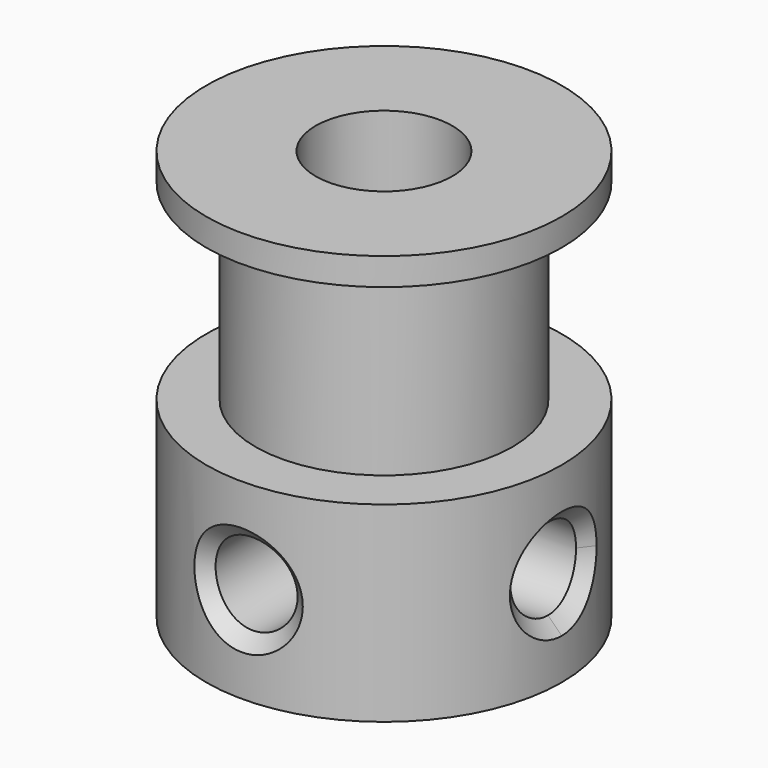
from build123d import *

# Parameters (mm, degrees)
SKETCH003_R     = 1.5
PAD010_DEPTH    = 8
SKETCH017_R     = 1.5
PAD009_DEPTH    = 8
SKETCH016_R     = 2.5
POCKET001_DEPTH = 15
CHAMFER005_SIZE = 0.5


with BuildPart() as pad010:
    # Sketch003 → Pad010 (new body)
    with BuildSketch(Plane(origin=(7, 0, 3.5), x_dir=(0, 1, 0), z_dir=(1, 0, 0))):
        Circle(SKETCH003_R)
    extrude(amount=-PAD010_DEPTH)


with BuildPart() as pad009:
    # Sketch017 → Pad009 (new body)
    with BuildSketch(Plane(origin=(0, -7, 3.5), x_dir=(1, 0, 0), z_dir=(0, -1, 0))):
        Circle(SKETCH017_R)
    extrude(amount=-PAD009_DEPTH)


with BuildPart() as chamfer005:
    # Sketch015 → Revolution (revolve)
    with BuildSketch(Plane.XZ):
        Polygon((0, 0), (6.5, 0), (6.5, 7), (4.7, 7), (4.7, 14), (6.5, 14), (6.5, 15), (0, 15), align=None)
    revolve(axis=Axis((0, 0, 0), (0, 0, 1)))

    # Sketch016 (on Face7 of Revolution) → Pocket001 (cut)
    with BuildSketch(Plane(origin=(0, 0, 15), x_dir=(-1, 0, 0), z_dir=(0, 0, 1))):
        Circle(SKETCH016_R)
    extrude(amount=-POCKET001_DEPTH, mode=Mode.SUBTRACT)

    # Cut013: cut Pad009
    add(pad009.part, mode=Mode.SUBTRACT)

    # Cut014: cut Pad010
    add(pad010.part, mode=Mode.SUBTRACT)

    # Chamfer005
    chamfer005_edges = [chamfer005.edges().sort_by_distance(p)[0] for p in [
        (-4e-06, -6.499997, 4.999986),
        (-4e-06, -6.499997, 2.000014),
        (6.412872, 1.060693, 4.560627),
        (6.412872, 1.060693, 2.439373),
        (6.412872, -1.060693, 2.439373),
        (6.412872, -1.060693, 4.560627),
    ]]
    chamfer(chamfer005_edges, length=CHAMFER005_SIZE)


solid = chamfer005.part
